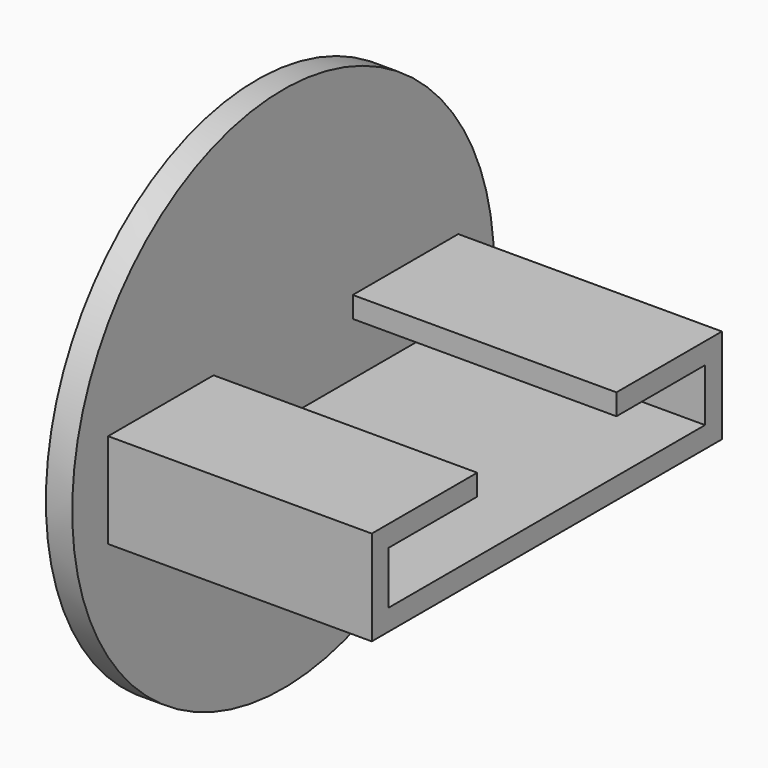
from build123d import *

# Parameters (mm, degrees)
F0_R     = 50
F1_DEPTH = 5
F3_DEPTH = 50
F4_R     = 5
F5_DEPTH = 4


with BuildPart() as f1:
    # F0 (on Right) → F1 (new body)
    with BuildSketch(Plane.YZ):
        Circle(F0_R)
    extrude(amount=-F1_DEPTH)

    # F2 (on Right) → F3 (join)
    with BuildSketch(Plane.YZ):
        Polygon((-41.5, 9), (-41.5, -9), (41.5, -9), (41.5, 9), (16.5, 9), (16.5, 5), (37.5, 5), (37.5, -5), (-37.5, -5), (-37.5, 5), (-16.5, 5), (-16.5, 9), align=None)
    extrude(amount=F3_DEPTH)

    # F4 (on face) → F5 (cut, through all)
    with BuildSketch(Plane(origin=(0, 0, -9), x_dir=(1, 0, 0), z_dir=(0, 0, -1))):
        with Locations((25.3, 26.2)):
            Circle(F4_R)
    extrude(amount=-F5_DEPTH, mode=Mode.SUBTRACT)


solid = f1.part
